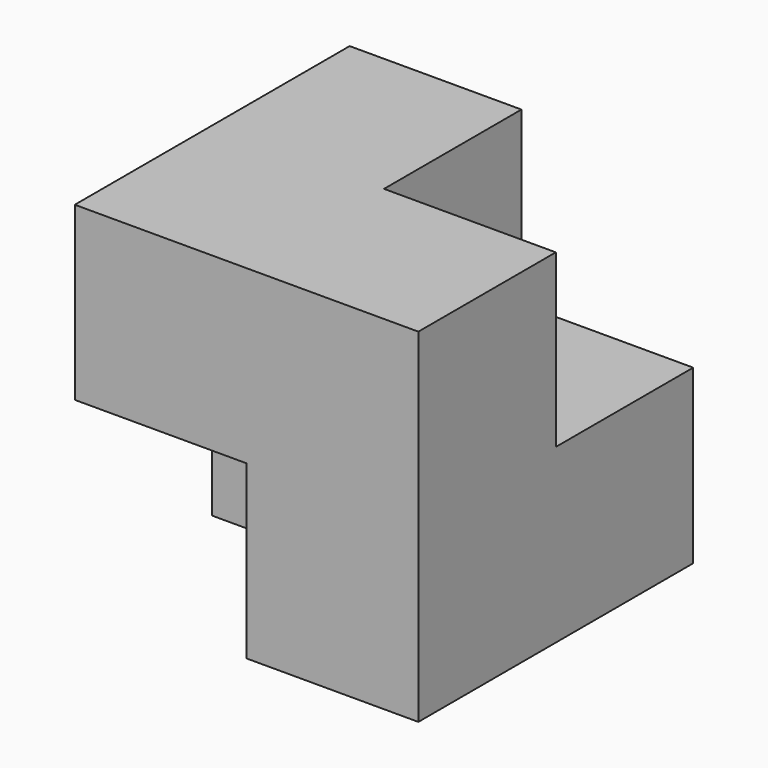
from build123d import *

# Parameters (mm, degrees)
F0_W     = 19.0500004709
F0_H     = 19.05
F0_W_2   = 19.0500002354
F0_W_3   = 19.05
F1_DEPTH = 19.1
F4_DEPTH = 19.05


with BuildPart() as f1:
    # F0 (on Top) → F1 (new body)
    with BuildSketch(Plane.XY):
        with Locations((-28.5750002354, -9.525)):
            Rectangle(F0_W, F0_H)
        with Locations((-9.5250001177, -9.525)):
            Rectangle(F0_W_2, F0_H)
        with Locations((-9.525, -28.575)):
            Rectangle(F0_W_3, F0_H)
    extrude(amount=F1_DEPTH)

    # F3 (on offset) → F4 (join)
    with BuildSketch(Plane.XY.offset(19.05)):
        Polygon((-19.05, 0), (-38.1, 0), (-38.1, -38.1), (0, -38.1), (0, -19.05), (-19.05, -19.05), align=None)
    extrude(amount=F4_DEPTH)


solid = f1.part
